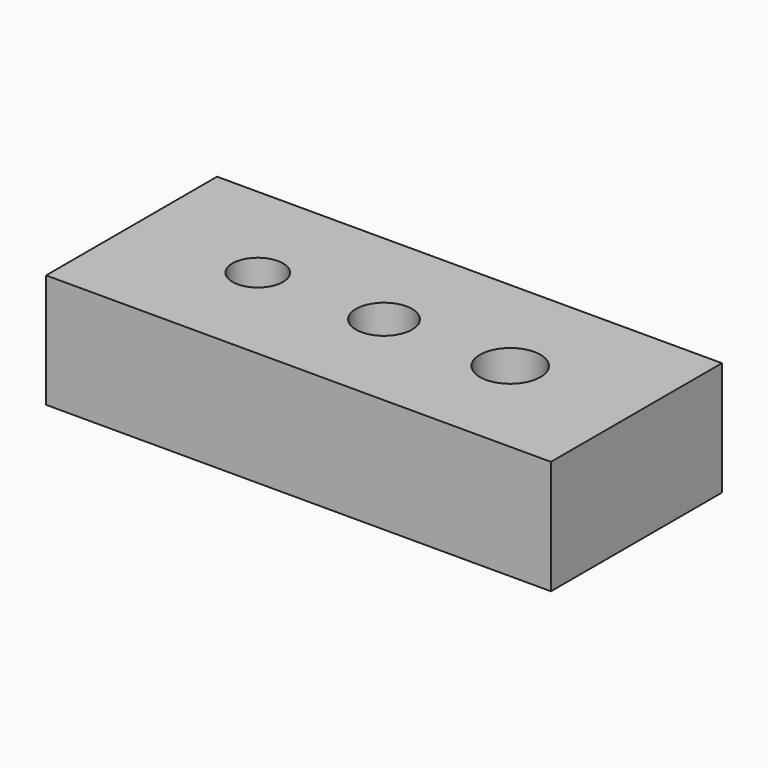
from build123d import *

# Parameters (mm, degrees)
F0_W     = 45
F0_H     = 19.05
F1_DEPTH = 10.16
F2_R     = 2.25
F2_R_2   = 2.5
F2_R_3   = 2.7
F3_DEPTH = 7.9


with BuildPart() as f1:
    # F0 (on Top) → F1 (new body)
    with BuildSketch(Plane.XY):
        Rectangle(F0_W, F0_H)
    extrude(amount=F1_DEPTH)

    # F2 (on face) → F3 (cut)
    with BuildSketch(Plane.XY.offset(10.16)):
        with Locations((-11.25, 0)):
            Circle(F2_R)
        Circle(F2_R_2)
        with Locations((11.25, 0)):
            Circle(F2_R_3)
    extrude(amount=-F3_DEPTH, mode=Mode.SUBTRACT)


solid = f1.part
